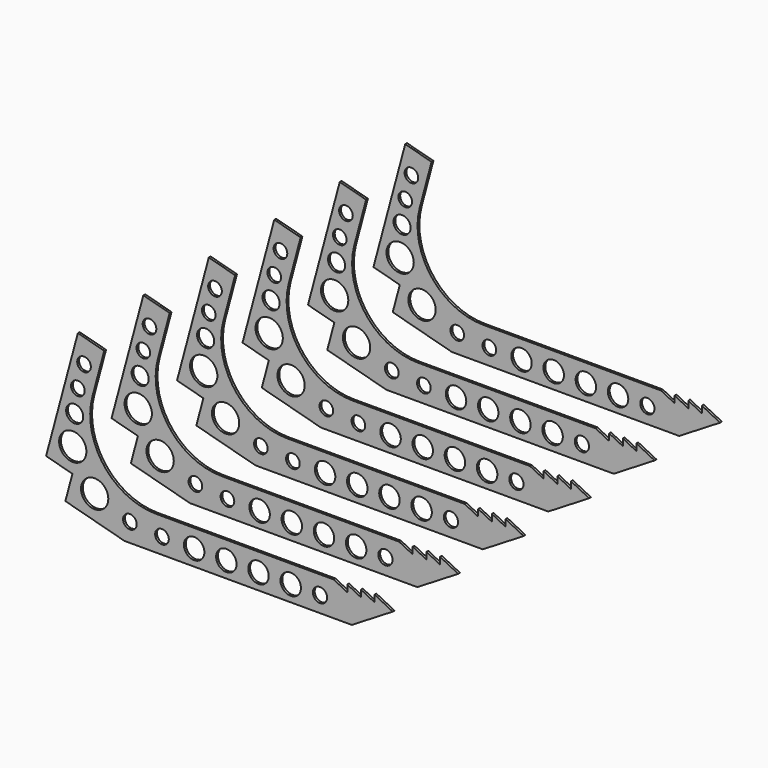
from build123d import *

# Parameters (mm, degrees)
SKETCH_R      = 19.8755
SKETCH_R_2    = 19.05
SKETCH_R_3    = 23.895818
SKETCH_R_4    = 38.1
SKETCH_R_5    = 28.575
PAD_DEPTH     = 6.35
ARRAY_Y_COUNT = 6
ARRAY_Y_PITCH = 228.6


with BuildPart() as body:
    # Sketch → Pad (new body)
    with BuildSketch(Plane.XZ):
        with BuildLine():
            Line((165.1, 0), (800.1, 0))
            Line((800.1, 0), (914.4, 69.85))
            Line((914.4, 69.85), (863.6, 95.25))
            Line((863.6, 95.25), (863.6, 76.2))
            Line((863.6, 76.2), (825.5, 95.25))
            Line((825.5, 95.25), (825.5, 76.2))
            Line((825.5, 76.2), (787.4, 95.25))
            Line((787.4, 95.25), (787.4, 76.2))
            Line((787.4, 76.2), (749.3, 95.25))
            Line((749.3, 95.25), (252.957335, 95.25))
            ThreePointArc((75.601043, 326.385346), (107.287501, 167.086436), (252.957335, 95.25))
            Line((75.601043, 326.385346), (108.471062, 449.057925))
            Line((108.471062, 449.057925), (34.867514, 468.779937))
            Line((34.867514, 468.779937), (-53.881537, 137.563971))
            Line((19.722011, 117.84196), (-53.881537, 137.563971))
            Line((19.722011, 117.84196), (0, 44.238412))
            Line((165.1, 0), (0, 44.238412))
        make_face()
        with Locations((711.2, 44.45)):
            Circle(SKETCH_R, mode=Mode.SUBTRACT)
        with Locations((52.170747, 397.596245)):
            Circle(SKETCH_R_2, mode=Mode.SUBTRACT)
        with Locations((34.815245, 332.82463)):
            Circle(SKETCH_R_2, mode=Mode.SUBTRACT)
        with Locations((25.99172, 267.608765)):
            Circle(SKETCH_R_3, mode=Mode.SUBTRACT)
        with Locations((20.645386, 185.122543)):
            Circle(SKETCH_R_4, mode=Mode.SUBTRACT)
        with Locations((629.362915, 44.45)):
            Circle(SKETCH_R_5, mode=Mode.SUBTRACT)
        with Locations((539.477036, 44.45)):
            Circle(SKETCH_R_5, mode=Mode.SUBTRACT)
        with Locations((449.591157, 44.45)):
            Circle(SKETCH_R_5, mode=Mode.SUBTRACT)
        with Locations((359.705277, 44.45)):
            Circle(SKETCH_R_5, mode=Mode.SUBTRACT)
        with Locations((269.819398, 44.45)):
            Circle(SKETCH_R_2, mode=Mode.SUBTRACT)
        with Locations((180.2592, 52.094743)):
            Circle(SKETCH_R_2, mode=Mode.SUBTRACT)
        with Locations((81.817619, 88.932823)):
            Circle(SKETCH_R_4, mode=Mode.SUBTRACT)
    extrude(amount=PAD_DEPTH)


with BuildPart() as array:
    # Array base: copy of Body
    add(body.part)

    # Array Y: Array ×6


with BuildPart() as array_1:
    add(array.part)
    with Locations(*[(0, i * ARRAY_Y_PITCH, 0) for i in range(1, ARRAY_Y_COUNT)]):
        add(array.part)


with BuildPart() as body001:
    # Clone base: copy of Body
    add(body.part)


solid = Compound([array_1.part, body001.part])
